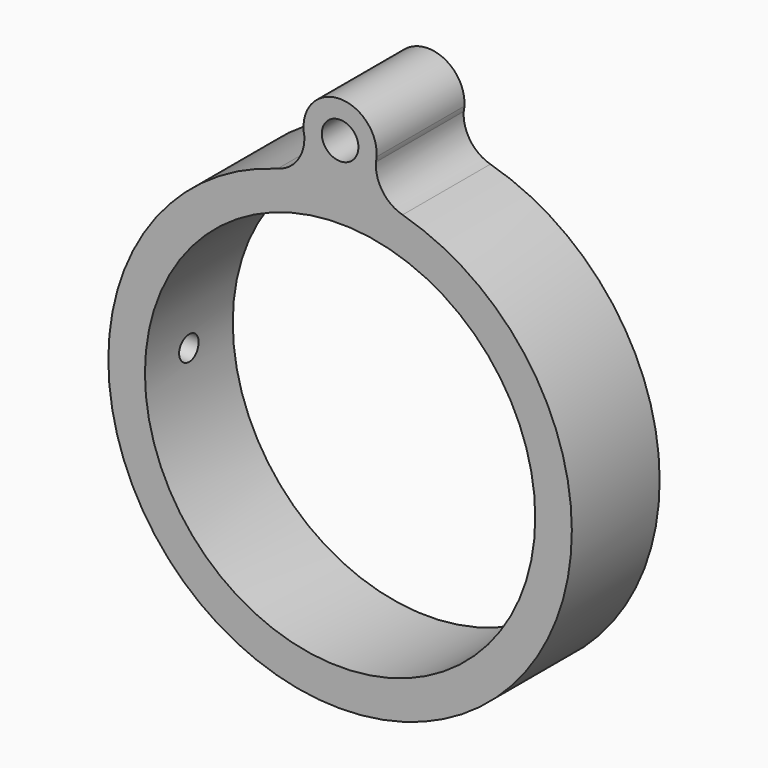
from build123d import *

# Parameters (mm, degrees)
F0_R     = 19
F0_R_2   = 16
F1_DEPTH = 9
F4_R     = 3
F5_DEPTH = 19.001
F6_R     = 1.5
F7_DEPTH = 9
F9_D     = 2
F9_DEPTH = 50
F9_TIP   = 0.600860619


with BuildPart() as f1:
    # F0 (on Front) → F1 (new body)
    with BuildSketch(Plane.XZ):
        Circle(F0_R)
        Circle(F0_R_2, mode=Mode.SUBTRACT)
    extrude(amount=F1_DEPTH)

    # F4 (on Right) → F5 (cut, through all)
    with BuildSketch(Plane.YZ):
        with Locations((-18, 0)):
            Circle(F4_R)
    extrude(amount=-F5_DEPTH, mode=Mode.SUBTRACT)

    # F6 (on face) → F7 (join)
    with BuildSketch(Plane.XZ.offset(9)):
        with BuildLine():
            ThreePointArc((-2.937363317, 21.3901670932), (-3.479735084, 19.4552086117), (-5.1216935171, 18.2966733456))
            ThreePointArc((-5.1216935171, 18.2966733456), (0, 19), (5.1216935171, 18.2966733456))
            ThreePointArc((5.1216935171, 18.2966733456), (3.479735084, 19.4552086117), (2.937363317, 21.3901670932))
            ThreePointArc((2.937363317, 21.3901670932), (2.9582746132, 21.5937605423), (2.993018618, 21.7954544414))
            ThreePointArc((2.993018618, 21.7954544414), (0, 24.9999997616), (-2.993018618, 21.7954544414))
            ThreePointArc((-2.993018618, 21.7954544414), (-2.9582746132, 21.5937605423), (-2.937363317, 21.3901670932))
        make_face()
        with Locations((0, 21.9999998808)):
            Circle(F6_R, mode=Mode.SUBTRACT)
        with BuildLine():
            ThreePointArc((-2.993018618, 21.7954544414), (-2.9721073218, 21.5918609923), (-2.937363317, 21.3901670932))
            ThreePointArc((-2.937363317, 21.3901670932), (-2.9582746132, 21.5937605423), (-2.993018618, 21.7954544414))
        make_face()
        with BuildLine():
            ThreePointArc((2.993018618, 21.7954544414), (2.9582746132, 21.5937605423), (2.937363317, 21.3901670932))
            ThreePointArc((2.937363317, 21.3901670932), (2.9721073218, 21.5918609923), (2.993018618, 21.7954544414))
        make_face()
    extrude(amount=-F7_DEPTH)

    # F9 (one way)
    with BuildSketch(Plane.YZ):
        with Locations((-4.5, 0)):
            Circle(F9_D / 2)
    extrude(amount=-F9_DEPTH, mode=Mode.SUBTRACT)
    with Locations(Plane.YZ):
        with Locations((-4.5, 0)):
            with Locations((0, 0, -(F9_DEPTH + F9_TIP / 2))):  # 118° drill point
                Cone(0, F9_D / 2, F9_TIP, mode=Mode.SUBTRACT)


solid = f1.part
